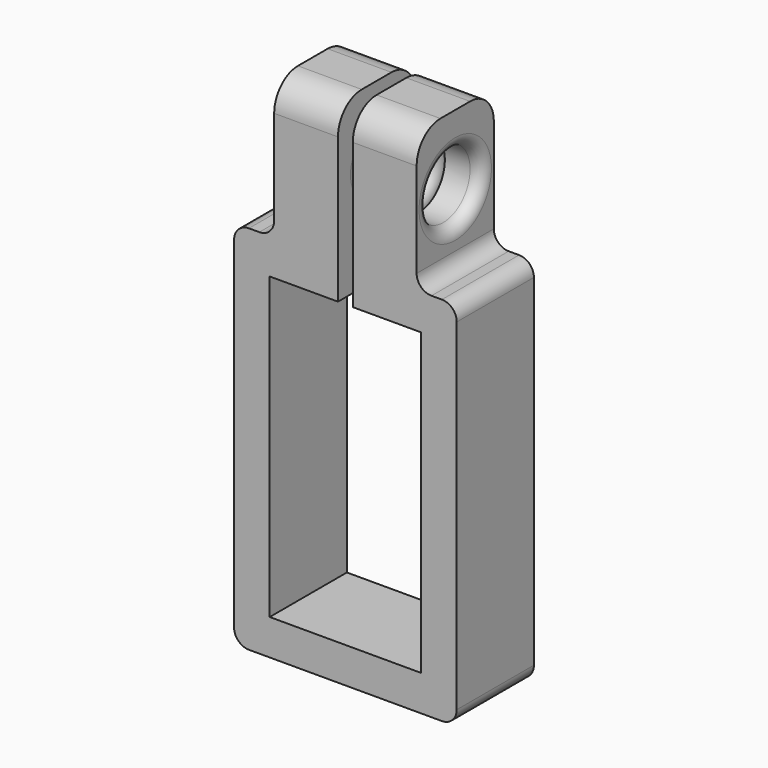
from build123d import *

# Parameters (mm, degrees)
F0_W     = 10.922
F0_H     = 23.809427796
F1_DEPTH = 16.51
F2_R     = 3.556
F3_DEPTH = 25.4
F4_R     = 3.556
F5_DEPTH = 6.35
F6_R     = 2.54
F7_R     = 5.08
F8_R     = 5.715
F9_DEPTH = 6.35
F10_R    = 2.032


with BuildPart() as f1:
    # F0 (on Front) → F1 (new body)
    with BuildSketch(Plane.XZ):
        with Locations((12.1058959829, 57.5174044678)):
            Rectangle(F0_W, F0_H)
        with Locations((-1.3561040171, 57.5174044678)):
            Rectangle(F0_W, F0_H)
        Polygon((-6.8171040171, 45.6126905698), (-13.6751040171, 45.6126905698), (-13.6751040171, -17.8873094302), (24.4248959829, -17.8873094302), (24.4248959829, 45.6126905698), (17.5668959829, 45.6126905698), (6.6448959829, 45.6126905698), (6.6448959829, 39.5166905698), (18.3288959829, 39.5166905698), (18.3288959829, -11.7913094302), (-7.5791040171, -11.7913094302), (-7.5791040171, 39.5166905698), (4.1048959829, 39.5166905698), (4.1048959829, 45.6126905698), align=None)
    extrude(amount=F1_DEPTH)

    # F2 (on face) → F3 (cut)
    with BuildSketch(Plane.YZ.offset(17.5668959829)):
        with Locations((-8.255, 57.5174044678)):
            Circle(F2_R)
    extrude(amount=-F3_DEPTH, mode=Mode.SUBTRACT)

    # F4 (on face) → F5 (cut)
    with BuildSketch(Plane(origin=(-6.8171040171, 0, 0), x_dir=(0, -1, 0), z_dir=(-1, 0, 0))):
        Polygon((4.7908983849, 51.5174044678), (11.7191016151, 51.5174044678), (15.1832032303, 57.5174044678), (11.7191016151, 63.5174044678), (4.7908983849, 63.5174044678), (1.3267967697, 57.5174044678), align=None)
        with Locations((8.255, 57.5174044678)):
            Circle(F4_R, mode=Mode.SUBTRACT)
    extrude(amount=-F5_DEPTH, mode=Mode.SUBTRACT)

    # F6
    f6_edges = [f1.edges().sort_by_distance(p)[0] for p in [
        (-13.675104, -8.255, 45.612691),
        (-6.817104, -8.255, 45.612691),
        (24.424896, -8.255, 45.612691),
        (17.566896, -8.255, 45.612691),
        (-13.675104, -8.255, -17.887309),
        (24.424896, -8.255, -17.887309),
    ]]
    fillet(f6_edges, radius=F6_R)

    # F7
    f7_edges = [f1.edges().sort_by_distance(p)[0] for p in [
        (12.105896, -16.51, 69.422118),
        (-1.356104, -16.51, 69.422118),
        (-1.356104, 0, 69.422118),
        (12.105896, 0, 69.422118),
    ]]
    fillet(f7_edges, radius=F7_R)

    # F8 (on face) → F9 (cut)
    with BuildSketch(Plane.YZ.offset(17.5668959829)):
        with Locations((-8.255, 57.5174044678)):
            Circle(F8_R)
    extrude(amount=-F9_DEPTH, mode=Mode.SUBTRACT)

    # F10
    f10_edges = [f1.edges().sort_by_distance(p)[0] for p in [
        (17.566896, -13.97, 57.517404),
        (11.216896, -11.811, 57.517404),
        (4.104896, -11.811, 57.517404),
        (6.644896, -11.811, 57.517404),
    ]]
    fillet(f10_edges, radius=F10_R)


solid = f1.part
